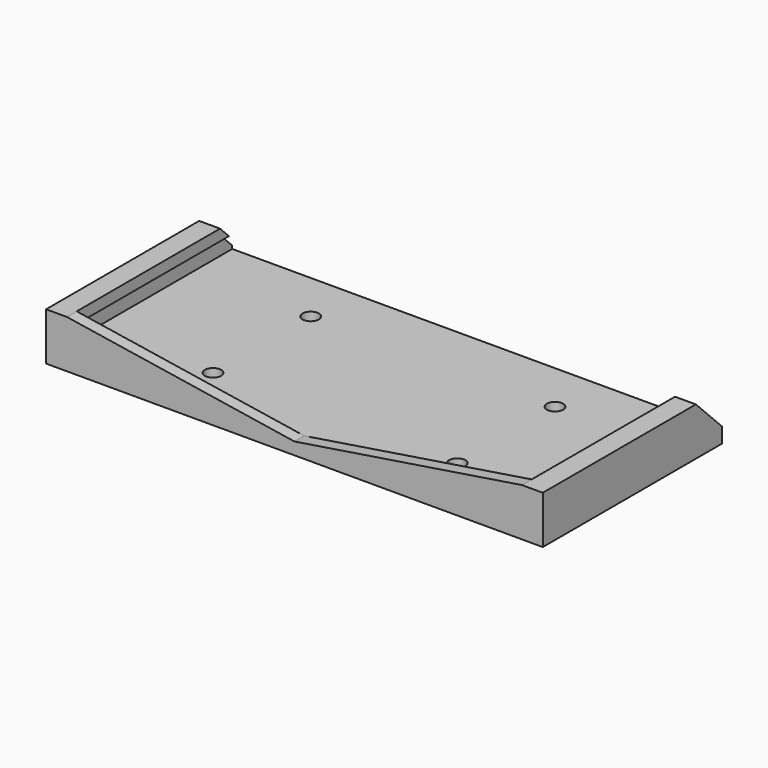
from build123d import *

# Parameters (mm, degrees)
F0_W      = 120
F0_H      = 55
F0_R      = 2
F1_DEPTH  = 3
F2_W      = 1.125
F2_H      = 55
F3_DEPTH  = 6
F5_DEPTH  = 55
F6_W      = 0.4
F6_H      = 6
F7_DEPTH  = 56.2
F9_DEPTH  = 3
F10_SIZE  = 8
F11_W     = 9.086206
F11_H     = 67.30528
F11_W_2   = 12.61974
F11_H_2   = 69.156178
F12_DEPTH = 12.5


with BuildPart() as f1:
    # F0 (on Top) → F1 (new body)
    with BuildSketch(Plane.XY):
        Rectangle(F0_W, F0_H)
        with Locations((-30, -15)):
            Circle(F0_R, mode=Mode.SUBTRACT)
        with Locations((30, -15)):
            Circle(F0_R, mode=Mode.SUBTRACT)
        with Locations((-30, 15)):
            Circle(F0_R, mode=Mode.SUBTRACT)
        with Locations((30, 15)):
            Circle(F0_R, mode=Mode.SUBTRACT)
    extrude(amount=F1_DEPTH)

    # F2 (on face) → F3 (join)
    with BuildSketch(Plane.XY.offset(3)):
        with Locations((59.4375, 0)):
            Rectangle(F2_W, F2_H)
        with Locations((-59.4375, 0)):
            Rectangle(F2_W, F2_H)
    extrude(amount=F3_DEPTH)

    # F4 (on face) → F5 (join)
    with BuildSketch(Plane.XZ.offset(27.5)):
        Polygon((-52.744724, 0), (-58.875, 3), (-58.875, 9), (-55.875, 9), (-55.875, 11.75), (-61.875, 11.75), (-61.875, 0), align=None)
        Polygon((61.875, 11.75), (55.875, 11.75), (55.875, 9), (58.875, 9), (58.875, 3), (52.744724, 0), (61.875, 0), align=None)
    extrude(amount=-F5_DEPTH)

    # F6 (on face) → F7 (cut)
    with BuildSketch(Plane.XZ.offset(27.5)):
        with Locations((-59.075, 6)):
            Rectangle(F6_W, F6_H)
        with Locations((59.075, 6)):
            Rectangle(F6_W, F6_H)
    extrude(amount=-F7_DEPTH, mode=Mode.SUBTRACT)

    # F8 (on face) → F9 (join)
    with BuildSketch(Plane.XZ.offset(27.5)):
        Polygon((0, 3), (-55.875, 11.75), (-61.875, 11.75), (-61.875, 0), (61.875, 0), (61.875, 11.75), (55.875, 11.75), align=None)
    extrude(amount=-F9_DEPTH)

    # F10
    f10_edges = [f1.edges().sort_by_distance(p)[0] for p in [
        (58.875, 27.5, 11.75),
        (-58.875, 27.5, 11.75),
    ]]
    chamfer(f10_edges, length=F10_SIZE)

    # F11 (on face) → F12 (cut, symmetric)
    with BuildSketch(Plane.XY.offset(3)):
        with Locations((-65.543103, -0.961821)):
            Rectangle(F11_W, F11_H)
        with Locations((67.30987, -1.382478)):
            Rectangle(F11_W_2, F11_H_2)
    extrude(amount=F12_DEPTH, both=True, mode=Mode.SUBTRACT)


solid = f1.part
